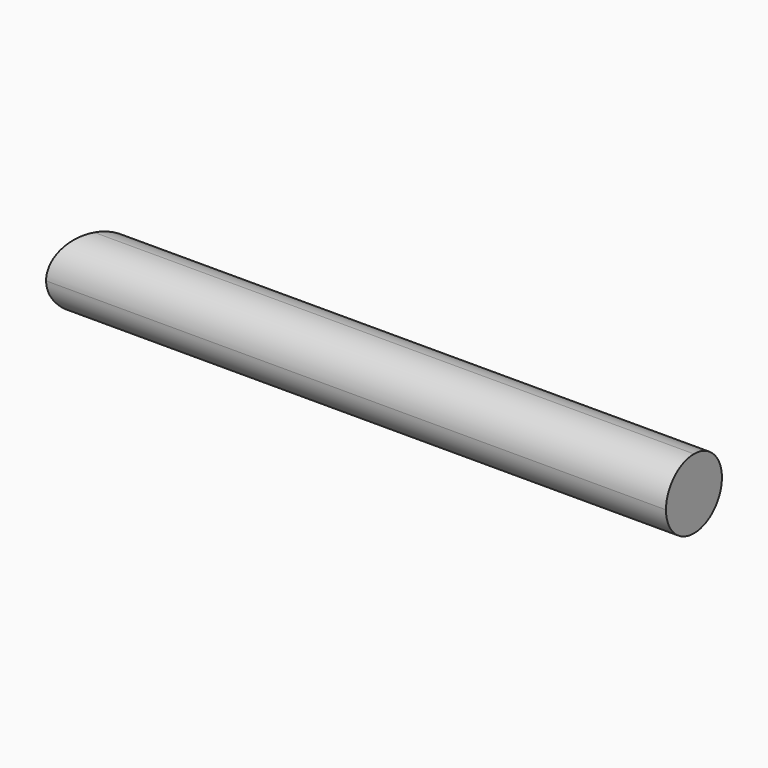
from build123d import *

# Parameters (mm, degrees)
F2_DEPTH = 2
F3_DEPTH = 25


with BuildPart() as f2:
    # F0 (on Top) → F2 (new body)
    with BuildSketch(Plane.XY):
        Polygon((1.1547, 2), (0, 0), (11.73205, 0), (17.73205, 0), (17.73205, 2), (11.73205, 2), align=None)
    extrude(amount=F2_DEPTH)

    # F1 (on Right) → F3 (cut)
    with BuildSketch(Plane.YZ):
        with BuildLine():
            ThreePointArc((2, 1), (1.7071067812, 0.2928932188), (1, 0))
            Line((1, 0), (2, 0))
            Line((2, 0), (2, 1))
        make_face()
        with BuildLine():
            Line((2, 2), (1, 2))
            ThreePointArc((1, 2), (1.7071067812, 1.7071067812), (2, 1))
            Line((2, 1), (2, 2))
        make_face()
        with BuildLine():
            Line((0, 2), (0, 1))
            ThreePointArc((0, 1), (0.2928932188, 1.7071067812), (1, 2))
            Line((1, 2), (0, 2))
        make_face()
        with BuildLine():
            Line((0, 1), (0, 0))
            Line((0, 0), (1, 0))
            ThreePointArc((1, 0), (0.2928932188, 0.2928932188), (0, 1))
        make_face()
    extrude(amount=F3_DEPTH, mode=Mode.SUBTRACT)


solid = f2.part
